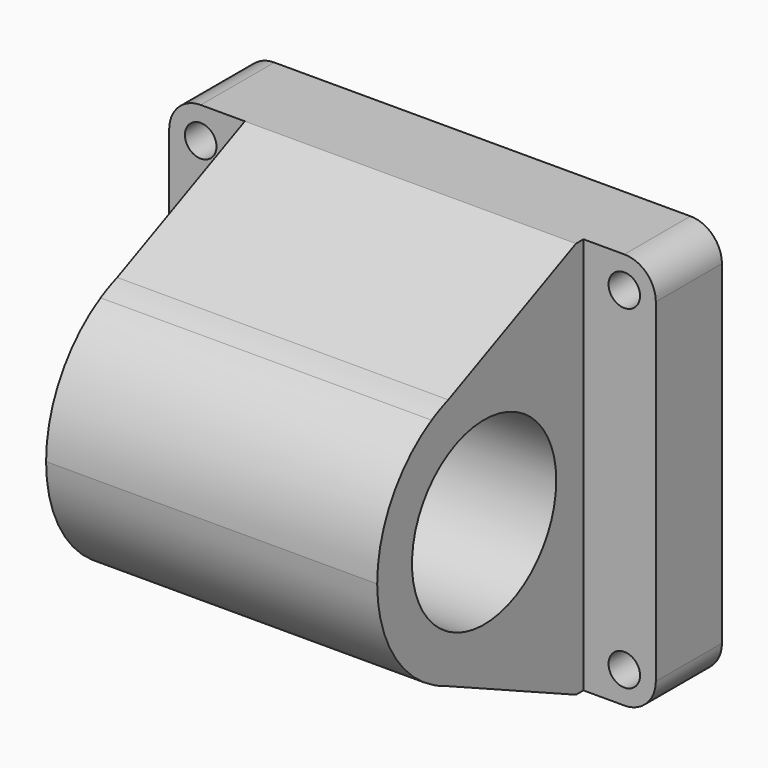
from build123d import *

# Parameters (mm, degrees)
F0_R     = 2.5
F1_DEPTH = 54
F2_W     = 12
F2_H     = 40.4068064877
F2_H_2   = 41
F3_DEPTH = 65
F4_R     = 14.3
F5_DEPTH = 100
F7_DEPTH = 100


with BuildPart() as f1:
    # F0 (on Front) → F1 (new body)
    with BuildSketch(Plane.XZ):
        with BuildLine():
            Line((71, 0), (5, 0))
            ThreePointArc((5, 0), (1.4644660941, -1.4644660941), (0, -5))
            Line((0, -5), (0, -58))
            ThreePointArc((0, -58), (1.4644660941, -61.5355339059), (5, -63))
            Line((5, -63), (71, -63))
            ThreePointArc((71, -63), (74.5355339059, -61.5355339059), (76, -58))
            Line((76, -58), (76, -5))
            ThreePointArc((76, -5), (74.5355339059, -1.4644660941), (71, 0))
        make_face()
        with Locations((5, -56)):
            Circle(F0_R, mode=Mode.SUBTRACT)
        with Locations((71, -58)):
            Circle(F0_R, mode=Mode.SUBTRACT)
        with Locations((5, -5)):
            Circle(F0_R, mode=Mode.SUBTRACT)
        with Locations((71, -5)):
            Circle(F0_R, mode=Mode.SUBTRACT)
    extrude(amount=F1_DEPTH)

    # F2 (on Top) → F3 (cut)
    with BuildSketch(Plane.XY):
        with Locations((6, -34.7947494417)):
            Rectangle(F2_W, F2_H)
        with Locations((70.5197853446, -33.6052147746)):
            Rectangle(F2_W, F2_H_2)
    extrude(amount=-F3_DEPTH, mode=Mode.SUBTRACT)

    # F4 (on Right) → F5 (cut)
    with BuildSketch(Plane.YZ):
        with Locations((-32.8, -31.5)):
            Circle(F4_R)
    extrude(amount=F5_DEPTH, mode=Mode.SUBTRACT)

    # F6 (on face) → F7 (cut)
    with BuildSketch(Plane(origin=(12, 0, 0), x_dir=(0, -1, 0), z_dir=(-1, 0, 0))):
        with BuildLine():
            ThreePointArc((42.6762688153, -50.2589795641), (41.5584607083, -50.8062001963), (40.4104675325, -51.2868841392))
            Line((40.4104675325, -51.2868841392), (14.5913461978, -63))
            Line((14.5913461978, -63), (54, -63))
            Line((54, -63), (54, -31.5))
            ThreePointArc((54, -31.5), (50.9496129282, -42.4558911348), (42.6762688153, -50.2589795641))
        make_face()
        with BuildLine():
            ThreePointArc((43.2032697632, -13.0280759466), (51.1028593255, -20.8020870956), (54, -31.5))
            Line((54, -31.5), (54, 0))
            Line((54, 0), (14.5913461978, 0))
            Line((14.5913461978, 0), (39.9029121162, -11.5253000155))
            ThreePointArc((39.9029121162, -11.5253000155), (41.5852822877, -12.205990175), (43.2032697632, -13.0280759466))
        make_face()
    extrude(amount=-F7_DEPTH, mode=Mode.SUBTRACT)


solid = f1.part
